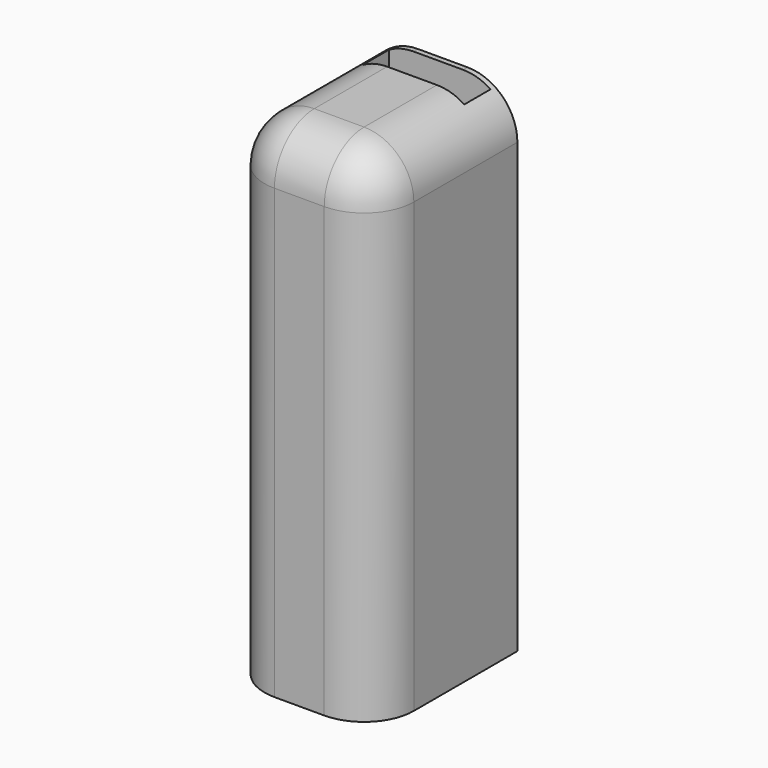
from build123d import *

# Parameters (mm, degrees)
F0_W     = 15
F0_H     = 18
F0_R     = 6
F0_W_2   = 10.2
F0_H_2   = 3.3
F1_DEPTH = 50
F2_D     = 12
F2_DEPTH = 45
F2_TIP   = 3.6051637142
F3_R     = 5
F4_R     = 5
F6_W     = 10.2
F6_H     = 3.3
F7_DEPTH = 40


with BuildPart() as f1:
    # F0 (on Top) → F1 (new body)
    with BuildSketch(Plane.XY):
        with Locations((0, 1.5)):
            Rectangle(F0_W, F0_H)
        Circle(F0_R, mode=Mode.SUBTRACT)
        with Locations((-0.15, 8.3)):
            Rectangle(F0_W_2, F0_H_2, mode=Mode.SUBTRACT)
        with Locations((-0.15, 8.3)):
            Rectangle(F0_W_2, F0_H_2)
        Circle(F0_R)
    extrude(amount=F1_DEPTH)

    # F2
    with Locations(Plane(origin=(0, 0, 0), x_dir=(1, 0, 0), z_dir=(0, 0, -1))):
        with Locations((0, 0)):
            Hole(F2_D / 2, depth=F2_DEPTH)
            with Locations((0, 0, -(F2_DEPTH + F2_TIP / 2))):  # 118° drill point
                Cone(0, F2_D / 2, F2_TIP, mode=Mode.SUBTRACT)

    # F3
    f3_edges = [f1.edges().sort_by_distance(p)[0] for p in [
        (7.5, -7.5, 25),
        (-7.5, -7.5, 25),
    ]]
    fillet(f3_edges, radius=F3_R)

    # F4
    f4_edges = [f1.edges().sort_by_distance(p)[0] for p in [
        (-7.5, 4, 50),
    ]]
    fillet(f4_edges, radius=F4_R)

    # F6 (on offset) → F7 (cut)
    with BuildSketch(Plane.XY.offset(50)):
        with Locations((0.15, 8.3)):
            Rectangle(F6_W, F6_H)
    extrude(amount=-F7_DEPTH, mode=Mode.SUBTRACT)


solid = f1.part
